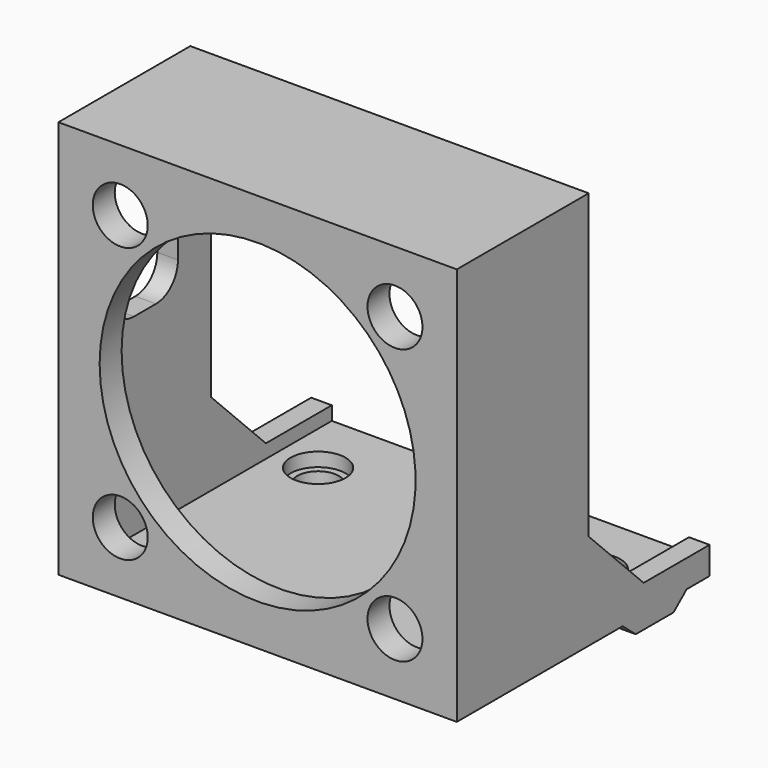
from build123d import *

# Parameters (mm, degrees)
SKETCH_W        = 29
SKETCH_H        = 10
PAD_DEPTH       = 2
PAD001_DEPTH    = 14.5
SKETCH002_W     = 26
SKETCH002_H     = 26
POCKET_DEPTH    = 10
SKETCH003_R     = 11.5
POCKET001_DEPTH = 5
SKETCH004_R     = 2
POCKET003_DEPTH = 5
SKETCH008_R     = 2
POCKET004_DEPTH = 5
SKETCH009_W     = 29
SKETCH009_H     = 5.8
SKETCH009_R     = 1.5
PAD005_DEPTH    = 1
CHAMFER_1_ANGLE = 50
CHAMFER_1_SIZE  = 0.99
CHAMFER_2_ANGLE = 50
CHAMFER_2_SIZE  = 0.99
SKETCH010_W     = 6
SKETCH010_H     = 10
POCKET005_DEPTH = 5
FILLET_R        = 2
FILLET_FACE26_W = 26
FILLET_FACE26_H = 1
POCKET006_DEPTH = 11.001
CHAMFER001_SIZE = 5


with BuildPart() as part:
    # Sketch → Pad (new body)
    with BuildSketch(Plane.XY):
        Rectangle(SKETCH_W, SKETCH_H)
    extrude(amount=PAD_DEPTH)

    # Sketch001 → Pad001 (join, symmetric)
    with BuildSketch(Plane.YZ):
        Polygon((-5, 0), (-18, 0), (-18, 29), (-6, 29), (-6, 2), (-5, 2), align=None)
    extrude(amount=PAD001_DEPTH, both=True)

    # Sketch002 (on Face5 of Pad001) → Pocket (cut)
    with BuildSketch(Plane(origin=(0, -6, 0), x_dir=(-1, 0, 0), z_dir=(0, 1, 0))):
        with Locations((0, 14)):
            Rectangle(SKETCH002_W, SKETCH002_H)
    extrude(amount=-POCKET_DEPTH, mode=Mode.SUBTRACT)

    # Sketch003 (on Face14 of Pocket) → Pocket001 (cut)
    with BuildSketch(Plane(origin=(0, -16, 0), x_dir=(-1, 0, 0), z_dir=(0, 1, 0))):
        with Locations((0, 14.5)):
            Circle(SKETCH003_R)
    extrude(amount=-POCKET001_DEPTH, mode=Mode.SUBTRACT)

    # Sketch004 (on Face15 of Pocket001) → Pocket003 (cut)
    with BuildSketch(Plane(origin=(0, -16, 0), x_dir=(-1, 0, 0), z_dir=(0, 1, 0))):
        with Locations((-10, 24.5)):
            Circle(SKETCH004_R)
        with Locations((10, 24.5)):
            Circle(SKETCH004_R)
        with Locations((10, 4.5)):
            Circle(SKETCH004_R)
        with Locations((-10, 4.5)):
            Circle(SKETCH004_R)
    extrude(amount=-POCKET003_DEPTH, mode=Mode.SUBTRACT)

    # Sketch008 (on Face4 of Pocket003) → Pocket004 (cut)
    with BuildSketch(Plane(origin=(0, 0, 0), x_dir=(1, 0, 0), z_dir=(0, 0, -1))):
        with Locations((-10, 0)):
            Circle(SKETCH008_R)
        with Locations((10, 0)):
            Circle(SKETCH008_R)
    extrude(amount=-POCKET004_DEPTH, mode=Mode.SUBTRACT)

    # Sketch009 (on Face4 of Pocket004) → Pad005 (join)
    with BuildSketch(Plane(origin=(0, 0, 0), x_dir=(1, 0, 0), z_dir=(0, 0, -1))):
        Rectangle(SKETCH009_W, SKETCH009_H)
        with Locations((-10, 0)):
            Circle(SKETCH009_R, mode=Mode.SUBTRACT)
        with Locations((10, 0)):
            Circle(SKETCH009_R, mode=Mode.SUBTRACT)
    extrude(amount=PAD005_DEPTH)

    # Chamfer 1
    chamfer_1_edges = [part.edges().sort_by_distance(p)[0] for p in [
        (0, -2.9, -1),
    ]]
    chamfer_1_side = part.faces().sort_by_distance((0, -2.9, -0.5))[0]
    chamfer(chamfer_1_edges, length=CHAMFER_1_SIZE, angle=CHAMFER_1_ANGLE, reference=chamfer_1_side)

    # Chamfer 2
    chamfer_2_edges = [part.edges().sort_by_distance(p)[0] for p in [
        (0, 2.9, -1),
    ]]
    chamfer_2_side = part.faces().sort_by_distance((0, 2.9, -0.5))[0]
    chamfer(chamfer_2_edges, length=CHAMFER_2_SIZE, angle=CHAMFER_2_ANGLE, reference=chamfer_2_side)

    # Sketch010 → Pocket005 (cut)
    with BuildSketch(Plane(origin=(-14.5, 0, 0), x_dir=(0, -1, 0), z_dir=(-1, 0, 0))):
        with Locations((12, 20)):
            Rectangle(SKETCH010_W, SKETCH010_H)
    extrude(amount=-POCKET005_DEPTH, mode=Mode.SUBTRACT)

    # Fillet
    fillet_edges = [part.edges().sort_by_distance(p)[0] for p in [
        (-13.75, -9, 15),
        (-13.75, -9, 25),
        (-13.75, -15, 15),
        (-13.75, -15, 25),
    ]]
    fillet(fillet_edges, radius=FILLET_R)

    # Fillet Face26 → Pocket006 (cut, through all)
    with BuildSketch(Plane(origin=(0, -6, 1.5), x_dir=(-1, 0, 0), z_dir=(0, -1, 0))):
        Rectangle(FILLET_FACE26_W, FILLET_FACE26_H)
    extrude(amount=-POCKET006_DEPTH, mode=Mode.SUBTRACT)

    # Chamfer001
    chamfer001_edges = [part.edges().sort_by_distance(p)[0] for p in [
        (13.75, -6, 2),
        (-13.75, -6, 2),
    ]]
    chamfer(chamfer001_edges, length=CHAMFER001_SIZE)


solid = part.part
